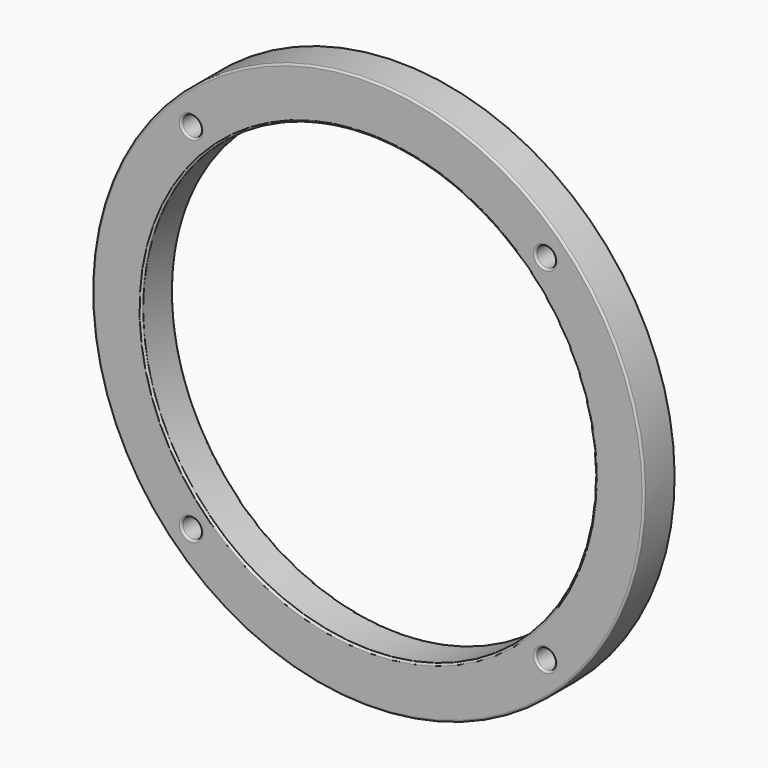
from build123d import *

# Parameters (mm, degrees)
CYLINDER008_R          = 2.5
CYLINDER008_DEPTH      = 10
CYLINDER006_R          = 2.5
CYLINDER006_DEPTH      = 10
CYLINDER007_R          = 2.5
CYLINDER007_DEPTH      = 10
CYLINDER005_R          = 2.5
CYLINDER005_DEPTH      = 10
CYLINDER010_R          = 57.5
CYLINDER010_DEPTH      = 10
CYLINDER011_R          = 70
CYLINDER011_DEPTH      = 10
CUT019_PLACEMENT_ANGLE = 45
FILLET006_R            = 0.5


with BuildPart() as cylinder008:
    # Cylinder008 → Cylinder008 (new body)
    with BuildSketch(Plane(origin=(75, 0, 138.5), x_dir=(1, 0, 0), z_dir=(0, -1, 0))):
        Circle(CYLINDER008_R)
    extrude(amount=CYLINDER008_DEPTH)


with BuildPart() as cylinder006:
    # Cylinder006 → Cylinder006 (new body)
    with BuildSketch(Plane(origin=(138.5, 0, 75), x_dir=(1, 0, 0), z_dir=(0, -1, 0))):
        Circle(CYLINDER006_R)
    extrude(amount=CYLINDER006_DEPTH)


with BuildPart() as cylinder007:
    # Cylinder007 → Cylinder007 (new body)
    with BuildSketch(Plane(origin=(75, 0, 11.5), x_dir=(1, 0, 0), z_dir=(0, -1, 0))):
        Circle(CYLINDER007_R)
    extrude(amount=CYLINDER007_DEPTH)


with BuildPart() as cylinder005:
    # Cylinder005 → Cylinder005 (new body)
    with BuildSketch(Plane(origin=(11.5, 0, 75), x_dir=(1, 0, 0), z_dir=(0, -1, 0))):
        Circle(CYLINDER005_R)
    extrude(amount=CYLINDER005_DEPTH)


with BuildPart() as obj1:
    # Cylinder010 → Cylinder010 (new body)
    with BuildSketch(Plane(origin=(75, 0, 75), x_dir=(1, 0, 0), z_dir=(0, -1, 0))):
        Circle(CYLINDER010_R)
    extrude(amount=CYLINDER010_DEPTH)


with BuildPart() as obj2:
    # Cylinder011 → Cylinder011 (new body)
    with BuildSketch(Plane(origin=(75, 0, 75), x_dir=(1, 0, 0), z_dir=(0, -1, 0))):
        Circle(CYLINDER011_R)
    extrude(amount=CYLINDER011_DEPTH)

    # Cut015: cut obj1
    add(obj1.part, mode=Mode.SUBTRACT)

    # Cut016: cut Cylinder005
    add(cylinder005.part, mode=Mode.SUBTRACT)

    # Cut017: cut Cylinder007
    add(cylinder007.part, mode=Mode.SUBTRACT)

    # Cut018: cut Cylinder006
    add(cylinder006.part, mode=Mode.SUBTRACT)

    # Cut019: cut Cylinder008
    add(cylinder008.part, mode=Mode.SUBTRACT)


with BuildPart() as obj2_1:
    # Cut019 placement: moved
    add(obj2.part.rotate(Axis((0, 0, 0), (0, 1, 0)), CUT019_PLACEMENT_ANGLE))

    # Fillet006
    fillet006_edges = [obj2_1.edges().sort_by_distance(p)[0] for p in [
        (56.568542, -10, 49.497475),
        (56.568542, 0, 49.497475),
        (149.199531, -10, -43.133514),
        (65.407377, -10, 40.65864),
        (149.199531, -10, 46.669048),
        (59.39697, -10, 46.669048),
        (59.39697, -10, -43.133514),
        (149.199531, 0, -43.133514),
        (65.407377, 0, 40.65864),
        (149.199531, 0, 46.669048),
        (59.39697, 0, 46.669048),
        (59.39697, 0, -43.133514),
    ]]
    fillet(fillet006_edges, radius=FILLET006_R)


with BuildPart() as obj2_2:
    # Fillet006 placement: moved
    add(obj2_1.part.moved(Location((-31, 0, 74.5))))


solid = obj2_2.part
